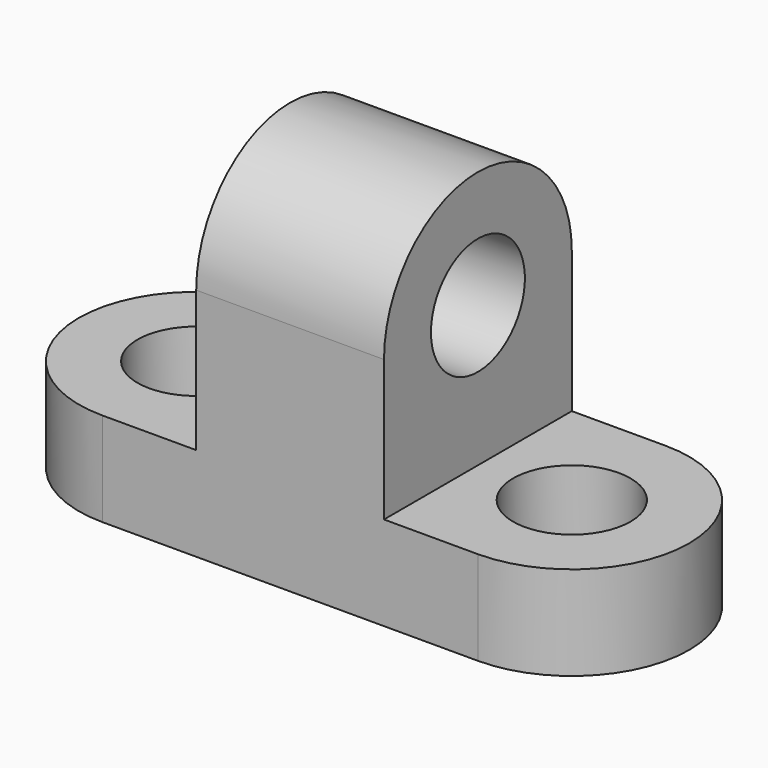
from build123d import *

# Parameters (mm, degrees)
F1_DEPTH = 20
F2_W     = 40
F2_H     = 50
F3_DEPTH = 30
F5_DEPTH = 40
F6_R     = 12.5
F7_DEPTH = 40
F8_R     = 12.5
F9_DEPTH = 20


with BuildPart() as f1:
    # F0 (on Top) → F1 (new body)
    with BuildSketch(Plane.XY):
        with BuildLine():
            Line((80, 50), (0, 50))
            ThreePointArc((0, 50), (-25, 25), (0, 0))
            Line((0, 0), (80, 0))
            ThreePointArc((80, 0), (105, 25), (80, 50))
        make_face()
    extrude(amount=F1_DEPTH)

    # F2 (on face) → F3 (join)
    with BuildSketch(Plane.XY.offset(20)):
        with Locations((40, 25)):
            Rectangle(F2_W, F2_H)
    extrude(amount=F3_DEPTH)

    # F4 (on face) → F5 (join, through all)
    with BuildSketch(Plane.YZ.offset(60)):
        with BuildLine():
            Line((0, 50), (50, 50))
            ThreePointArc((50, 50), (25, 75), (0, 50))
        make_face()
    extrude(amount=-F5_DEPTH)

    # F6 (on face) → F7 (cut, through all)
    with BuildSketch(Plane(origin=(20, 0, 0), x_dir=(0, -1, 0), z_dir=(-1, 0, 0))):
        with Locations((-25, 50)):
            Circle(F6_R)
    extrude(amount=-F7_DEPTH, mode=Mode.SUBTRACT)

    # F8 (on face) → F9 (cut, through all)
    with BuildSketch(Plane.XY.offset(20)):
        with Locations((0, 25)):
            Circle(F8_R)
        with Locations((80, 25)):
            Circle(F8_R)
    extrude(amount=-F9_DEPTH, mode=Mode.SUBTRACT)


solid = f1.part
